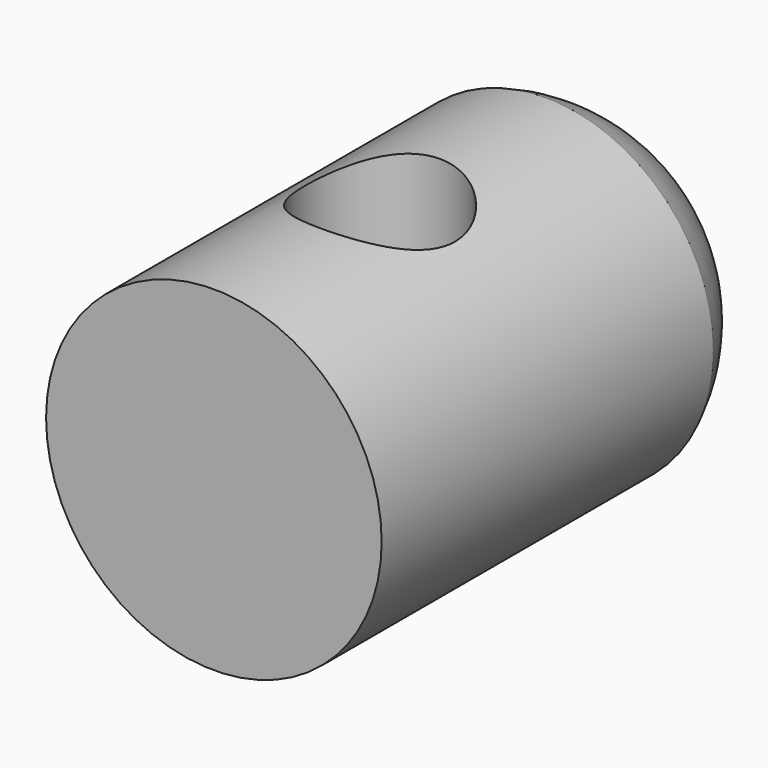
from build123d import *

# Parameters (mm, degrees)
F2_R     = 9.652
F3_DEPTH = 25.4


with BuildPart() as f1:
    # F0 (on Top) → F1 (revolve)
    with BuildSketch(Plane.XY):
        with BuildLine():
            Line((-82.27174, 53.34), (-82.27174, 0))
            Line((-82.27174, 0), (-60.68174, 0))
            Line((-60.68174, 0), (-60.68174, 67.31))
            ThreePointArc((-60.68174, 67.31), (-73.63371, 63.658499), (-82.27174, 53.34))
        make_face()
    revolve(axis=Axis((-60.68174, 33.655, 0), (0, -1, 0)))

    # F2 (on Top) → F3 (cut, symmetric)
    with BuildSketch(Plane.XY):
        with Locations((-60.629321, 26.67)):
            Circle(F2_R)
    extrude(amount=F3_DEPTH, both=True, mode=Mode.SUBTRACT)


solid = f1.part
